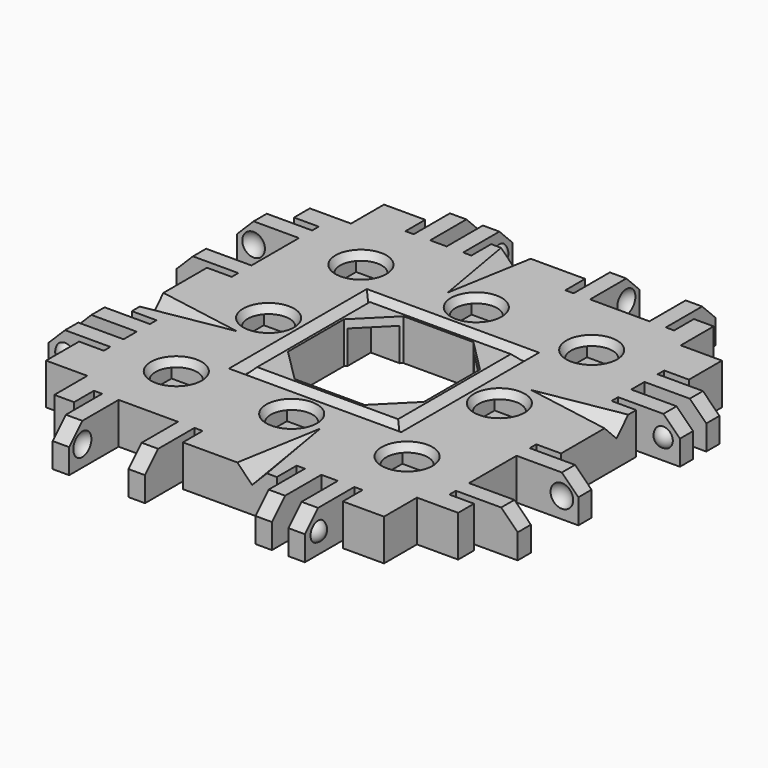
from build123d import *

# Parameters (mm, degrees)
BOX145_W                  = 16
BOX145_H                  = 16
BOX145_DEPTH              = 15
BOX146_W                  = 16.5
BOX146_H                  = 16.5
BOX146_DEPTH              = 15
CHAMFER013_SIZE           = 4
BOX148_W                  = 17
BOX148_H                  = 17
BOX148_DEPTH              = 14
BOX147_W                  = 21
BOX147_H                  = 21
BOX147_DEPTH              = 10
CHAMFER014_SIZE           = 0.95
BOX266_W                  = 10
BOX266_H                  = 15
BOX266_DEPTH              = 10
BOX266_ROLL_ANGLE         = 14.001942
BOX266_PITCH_ANGLE        = -44.136029
BOX266_PLACEMENT_ANGLE    = -99.851076
BOX267_W                  = 10
BOX267_H                  = 15
BOX267_DEPTH              = 10
BOX267_ROLL_ANGLE         = 14.001942
BOX267_PITCH_ANGLE        = -44.136029
BOX267_PLACEMENT_ANGLE    = 170.148924
BOX268_W                  = 10
BOX268_H                  = 15
BOX268_DEPTH              = 10
BOX268_ROLL_ANGLE         = 14.001942
BOX268_PITCH_ANGLE        = -44.136029
BOX268_PLACEMENT_ANGLE    = 80.148924
BOX265_W                  = 10
BOX265_H                  = 15
BOX265_DEPTH              = 10
BOX265_ROLL_ANGLE         = 14.001942
BOX265_PITCH_ANGLE        = -44.136029
BOX265_PLACEMENT_ANGLE    = -9.851076
BOX214_W                  = 13
BOX214_H                  = 40
BOX214_DEPTH              = 10
BOX214_PITCH_ANGLE        = -45
BOX222_W                  = 12
BOX222_H                  = 44
BOX222_DEPTH              = 10
BOX221_W                  = 20
BOX221_H                  = 44
BOX221_DEPTH              = 10
BOX217_W                  = 4
BOX217_H                  = 1
BOX217_DEPTH              = 7
BOX219_W                  = 4
BOX219_H                  = 1
BOX219_DEPTH              = 7
BOX216_W                  = 4
BOX216_H                  = 2
BOX216_DEPTH              = 7
BOX218_W                  = 4
BOX218_H                  = 1
BOX218_DEPTH              = 7
BOX215_W                  = 4
BOX215_H                  = 1
BOX215_DEPTH              = 7
BOX220_W                  = 4
BOX220_H                  = 7.2
BOX220_DEPTH              = 7
BOX210_W                  = 10
BOX210_H                  = 2
BOX210_DEPTH              = 7
BOX211_W                  = 10
BOX211_H                  = 2
BOX211_DEPTH              = 7
BOX212_W                  = 10
BOX212_H                  = 2
BOX212_DEPTH              = 7
BOX213_W                  = 10
BOX213_H                  = 2
BOX213_DEPTH              = 7
BOX209_W                  = 5
BOX209_H                  = 40
BOX209_DEPTH              = 7
BOX225_W                  = 13
BOX225_H                  = 40
BOX225_DEPTH              = 10
BOX225_PITCH_ANGLE        = -45
BOX236_W                  = 12
BOX236_H                  = 44
BOX236_DEPTH              = 10
BOX233_W                  = 20
BOX233_H                  = 44
BOX233_DEPTH              = 10
BOX228_W                  = 4
BOX228_H                  = 1
BOX228_DEPTH              = 7
BOX230_W                  = 4
BOX230_H                  = 1
BOX230_DEPTH              = 7
BOX224_W                  = 4
BOX224_H                  = 2
BOX224_DEPTH              = 7
BOX229_W                  = 4
BOX229_H                  = 1
BOX229_DEPTH              = 7
BOX232_W                  = 4
BOX232_H                  = 1
BOX232_DEPTH              = 7
BOX227_W                  = 4
BOX227_H                  = 7.2
BOX227_DEPTH              = 7
BOX226_W                  = 10
BOX226_H                  = 2
BOX226_DEPTH              = 7
BOX231_W                  = 10
BOX231_H                  = 2
BOX231_DEPTH              = 7
BOX235_W                  = 10
BOX235_H                  = 2
BOX235_DEPTH              = 7
BOX234_W                  = 10
BOX234_H                  = 2
BOX234_DEPTH              = 7
BOX223_W                  = 5
BOX223_H                  = 40
BOX223_DEPTH              = 7
CUT091_PLACEMENT_ANGLE    = 90
BOX246_W                  = 13
BOX246_H                  = 40
BOX246_DEPTH              = 10
BOX246_PITCH_ANGLE        = -45
BOX237_W                  = 12
BOX237_H                  = 44
BOX237_DEPTH              = 10
BOX241_W                  = 20
BOX241_H                  = 44
BOX241_DEPTH              = 10
BOX245_W                  = 4
BOX245_H                  = 1
BOX245_DEPTH              = 7
BOX238_W                  = 4
BOX238_H                  = 1
BOX238_DEPTH              = 7
BOX249_W                  = 4
BOX249_H                  = 2
BOX249_DEPTH              = 7
BOX244_W                  = 4
BOX244_H                  = 1
BOX244_DEPTH              = 7
BOX243_W                  = 4
BOX243_H                  = 1
BOX243_DEPTH              = 7
BOX248_W                  = 4
BOX248_H                  = 7.2
BOX248_DEPTH              = 7
BOX250_W                  = 10
BOX250_H                  = 2
BOX250_DEPTH              = 7
BOX239_W                  = 10
BOX239_H                  = 2
BOX239_DEPTH              = 7
BOX240_W                  = 10
BOX240_H                  = 2
BOX240_DEPTH              = 7
BOX242_W                  = 10
BOX242_H                  = 2
BOX242_DEPTH              = 7
BOX247_W                  = 5
BOX247_H                  = 40
BOX247_DEPTH              = 7
CUT092_PLACEMENT_ANGLE    = 180
BOX254_W                  = 13
BOX254_H                  = 40
BOX254_DEPTH              = 10
BOX254_PITCH_ANGLE        = -45
BOX251_W                  = 12
BOX251_H                  = 44
BOX251_DEPTH              = 10
BOX261_W                  = 20
BOX261_H                  = 44
BOX261_DEPTH              = 10
BOX253_W                  = 4
BOX253_H                  = 1
BOX253_DEPTH              = 7
BOX264_W                  = 4
BOX264_H                  = 1
BOX264_DEPTH              = 7
BOX257_W                  = 4
BOX257_H                  = 2
BOX257_DEPTH              = 7
BOX260_W                  = 4
BOX260_H                  = 1
BOX260_DEPTH              = 7
BOX259_W                  = 4
BOX259_H                  = 1
BOX259_DEPTH              = 7
BOX256_W                  = 4
BOX256_H                  = 7.2
BOX256_DEPTH              = 7
BOX258_W                  = 10
BOX258_H                  = 2
BOX258_DEPTH              = 7
BOX252_W                  = 10
BOX252_H                  = 2
BOX252_DEPTH              = 7
BOX263_W                  = 10
BOX263_H                  = 2
BOX263_DEPTH              = 7
BOX262_W                  = 10
BOX262_H                  = 2
BOX262_DEPTH              = 7
BOX255_W                  = 5
BOX255_H                  = 40
BOX255_DEPTH              = 7
CUT100_PLACEMENT_ANGLE    = -90
BOX073_W                  = 5.8
BOX073_H                  = 5.8
BOX073_DEPTH              = 2
BOX071_W                  = 5.8
BOX071_H                  = 5.8
BOX071_DEPTH              = 2
BOX069_W                  = 5.8
BOX069_H                  = 5.8
BOX069_DEPTH              = 2
BOX068_W                  = 5.8
BOX068_H                  = 5.8
BOX068_DEPTH              = 2
BOX070_W                  = 5.8
BOX070_H                  = 5.8
BOX070_DEPTH              = 2
BOX072_W                  = 5.8
BOX072_H                  = 5.8
BOX072_DEPTH              = 2
BOX074_W                  = 5.8
BOX074_H                  = 5.8
BOX074_DEPTH              = 2
BOX067_W                  = 5.8
BOX067_H                  = 5.8
BOX067_DEPTH              = 2
CYLINDER018_R             = 1.7
CYLINDER018_DEPTH         = 10
CYLINDER016_R             = 1.7
CYLINDER016_DEPTH         = 10
CYLINDER015_R             = 1.7
CYLINDER015_DEPTH         = 10
CYLINDER014_R             = 1.7
CYLINDER014_DEPTH         = 10
CYLINDER013_R             = 1.7
CYLINDER013_DEPTH         = 10
CYLINDER017_R             = 1.7
CYLINDER017_DEPTH         = 10
CYLINDER019_R             = 1.7
CYLINDER019_DEPTH         = 10
CYLINDER012_R             = 1.7
CYLINDER012_DEPTH         = 10
FUSION047_PLACEMENT_ANGLE = 180
BOX075_W                  = 40
BOX075_H                  = 40
BOX075_DEPTH              = 5


with BuildPart() as cube129:
    # Box145 → Box145 (new body)
    with BuildSketch(Plane(origin=(12, 12, -13), x_dir=(1, 0, 0), z_dir=(0, 0, 1))):
        with Locations((8, 8)):
            Rectangle(BOX145_W, BOX145_H)
    extrude(amount=BOX145_DEPTH)


with BuildPart() as chamfer013:
    # Box146 → Box146 (new body)
    with BuildSketch(Plane(origin=(11.75, 11.75, -3), x_dir=(1, 0, 0), z_dir=(0, 0, 1))):
        with Locations((8.25, 8.25)):
            Rectangle(BOX146_W, BOX146_H)
    extrude(amount=BOX146_DEPTH)

    # Chamfer013
    chamfer013_edges = [chamfer013.edges().sort_by_distance(p)[0] for p in [
        (11.75, 11.75, 4.5),
        (11.75, 28.25, 4.5),
        (28.25, 11.75, 4.5),
        (28.25, 28.25, 4.5),
    ]]
    chamfer(chamfer013_edges, length=CHAMFER013_SIZE)


with BuildPart() as cube132:
    # Box148 → Box148 (new body)
    with BuildSketch(Plane(origin=(11.5, 11.5, 0), x_dir=(1, 0, 0), z_dir=(0, 0, 1))):
        with Locations((8.5, 8.5)):
            Rectangle(BOX148_W, BOX148_H)
    extrude(amount=BOX148_DEPTH)


with BuildPart() as chamfer014:
    # Box147 → Box147 (new body)
    with BuildSketch(Plane(origin=(9.5, 9.5, 2.1), x_dir=(1, 0, 0), z_dir=(0, 0, 1))):
        with Locations((10.5, 10.5)):
            Rectangle(BOX147_W, BOX147_H)
    extrude(amount=BOX147_DEPTH)

    # Cut043: cut Cube132
    add(cube132.part, mode=Mode.SUBTRACT)

    # Chamfer014
    chamfer014_edges = [chamfer014.edges().sort_by_distance(p)[0] for p in [
        (9.5, 20, 2.1),
        (20, 9.5, 2.1),
        (20, 30.5, 2.1),
        (30.5, 20, 2.1),
        (20, 11.5, 2.1),
        (28.5, 20, 2.1),
        (20, 28.5, 2.1),
        (11.5, 20, 2.1),
    ]]
    chamfer(chamfer014_edges, length=CHAMFER014_SIZE)


with BuildPart() as cube225:
    # Box266 → Box266 (new body)
    with BuildSketch(Plane.XY):
        with Locations((5, 7.5)):
            Rectangle(BOX266_W, BOX266_H)
    extrude(amount=BOX266_DEPTH)


with BuildPart() as cube225_1:
    # Box266 roll: moved
    add(cube225.part.rotate(Axis((0, 0, 0), (1, 0, 0)), BOX266_ROLL_ANGLE))


with BuildPart() as cube225_2:
    # Box266 pitch: moved
    add(cube225_1.part.rotate(Axis((0, 0, 0), (0, 1, 0)), BOX266_PITCH_ANGLE))


with BuildPart() as cube225_3:
    # Box266 placement: moved
    add(cube225_2.part.moved(Location((-6, 16, 1))).rotate(Axis((-6, 16, 1), (0, 0, 1)), BOX266_PLACEMENT_ANGLE))


with BuildPart() as cube226:
    # Box267 → Box267 (new body)
    with BuildSketch(Plane.XY):
        with Locations((5, 7.5)):
            Rectangle(BOX267_W, BOX267_H)
    extrude(amount=BOX267_DEPTH)


with BuildPart() as cube226_1:
    # Box267 roll: moved
    add(cube226.part.rotate(Axis((0, 0, 0), (1, 0, 0)), BOX267_ROLL_ANGLE))


with BuildPart() as cube226_2:
    # Box267 pitch: moved
    add(cube226_1.part.rotate(Axis((0, 0, 0), (0, 1, 0)), BOX267_PITCH_ANGLE))


with BuildPart() as cube226_3:
    # Box267 placement: moved
    add(cube226_2.part.moved(Location((16, 46, 1))).rotate(Axis((16, 46, 1), (0, 0, 1)), BOX267_PLACEMENT_ANGLE))


with BuildPart() as cube227:
    # Box268 → Box268 (new body)
    with BuildSketch(Plane.XY):
        with Locations((5, 7.5)):
            Rectangle(BOX268_W, BOX268_H)
    extrude(amount=BOX268_DEPTH)


with BuildPart() as cube227_1:
    # Box268 roll: moved
    add(cube227.part.rotate(Axis((0, 0, 0), (1, 0, 0)), BOX268_ROLL_ANGLE))


with BuildPart() as cube227_2:
    # Box268 pitch: moved
    add(cube227_1.part.rotate(Axis((0, 0, 0), (0, 1, 0)), BOX268_PITCH_ANGLE))


with BuildPart() as cube227_3:
    # Box268 placement: moved
    add(cube227_2.part.moved(Location((46, 24, 1))).rotate(Axis((46, 24, 1), (0, 0, 1)), BOX268_PLACEMENT_ANGLE))


with BuildPart() as glue_dents001:
    # Box265 → Box265 (new body)
    with BuildSketch(Plane.XY):
        with Locations((5, 7.5)):
            Rectangle(BOX265_W, BOX265_H)
    extrude(amount=BOX265_DEPTH)


with BuildPart() as glue_dents001_1:
    # Box265 roll: moved
    add(glue_dents001.part.rotate(Axis((0, 0, 0), (1, 0, 0)), BOX265_ROLL_ANGLE))


with BuildPart() as glue_dents001_2:
    # Box265 pitch: moved
    add(glue_dents001_1.part.rotate(Axis((0, 0, 0), (0, 1, 0)), BOX265_PITCH_ANGLE))


with BuildPart() as glue_dents001_3:
    # Box265 placement: moved
    add(glue_dents001_2.part.moved(Location((24, -6, 1))).rotate(Axis((24, -6, 1), (0, 0, 1)), BOX265_PLACEMENT_ANGLE))

    # Fusion099: union Cube225, Cube226, Cube227
    add(cube225_3.part)
    add(cube226_3.part)
    add(cube227_3.part)


with BuildPart() as chamfer_cube005:
    # Box214 → Box214 (new body)
    with BuildSketch(Plane.XY):
        with Locations((6.5, 20)):
            Rectangle(BOX214_W, BOX214_H)
    extrude(amount=BOX214_DEPTH)


with BuildPart() as chamfer_cube005_1:
    # Box214 pitch: moved
    add(chamfer_cube005.part.rotate(Axis((0, 0, 0), (0, 1, 0)), BOX214_PITCH_ANGLE))


with BuildPart() as chamfer_cube005_2:
    # Box214 placement: moved
    add(chamfer_cube005_1.part.moved(Location((-11.69, 0, -1.19))))


with BuildPart() as re_level_edge_clip_block011:
    # Box222 → Box222 (new body)
    with BuildSketch(Plane(origin=(-21.5, -2, -7), x_dir=(1, 0, 0), z_dir=(0, 0, 1))):
        with Locations((6, 22)):
            Rectangle(BOX222_W, BOX222_H)
    extrude(amount=BOX222_DEPTH)


with BuildPart() as re_level_edge_clip_block010:
    # Box221 → Box221 (new body)
    with BuildSketch(Plane(origin=(-19, -2, 3), x_dir=(1, 0, 0), z_dir=(0, 0, 1))):
        with Locations((10, 22)):
            Rectangle(BOX221_W, BOX221_H)
    extrude(amount=BOX221_DEPTH)


with BuildPart() as cube187:
    # Box217 → Box217 (new body)
    with BuildSketch(Plane(origin=(-6, 12, -2), x_dir=(1, 0, 0), z_dir=(0, 0, 1))):
        with Locations((2, 0.5)):
            Rectangle(BOX217_W, BOX217_H)
    extrude(amount=BOX217_DEPTH)


with BuildPart() as cube189:
    # Box219 → Box219 (new body)
    with BuildSketch(Plane(origin=(-6, 36.6, -2), x_dir=(1, 0, 0), z_dir=(0, 0, 1))):
        with Locations((2, 0.5)):
            Rectangle(BOX219_W, BOX219_H)
    extrude(amount=BOX219_DEPTH)


with BuildPart() as cube186:
    # Box216 → Box216 (new body)
    with BuildSketch(Plane(origin=(-6, 8, -2), x_dir=(1, 0, 0), z_dir=(0, 0, 1))):
        with Locations((2, 1)):
            Rectangle(BOX216_W, BOX216_H)
    extrude(amount=BOX216_DEPTH)


with BuildPart() as cube188:
    # Box218 → Box218 (new body)
    with BuildSketch(Plane(origin=(-6, 24.4, -2), x_dir=(1, 0, 0), z_dir=(0, 0, 1))):
        with Locations((2, 0.5)):
            Rectangle(BOX218_W, BOX218_H)
    extrude(amount=BOX218_DEPTH)


with BuildPart() as cube185:
    # Box215 → Box215 (new body)
    with BuildSketch(Plane(origin=(-6, 5, -2), x_dir=(1, 0, 0), z_dir=(0, 0, 1))):
        with Locations((2, 0.5)):
            Rectangle(BOX215_W, BOX215_H)
    extrude(amount=BOX215_DEPTH)


with BuildPart() as extra_holes_for_clips005:
    # Box220 → Box220 (new body)
    with BuildSketch(Plane(origin=(-6, 27.4, -2), x_dir=(1, 0, 0), z_dir=(0, 0, 1))):
        with Locations((2, 3.6)):
            Rectangle(BOX220_W, BOX220_H)
    extrude(amount=BOX220_DEPTH)

    # Fusion079: union Cube187, Cube189, Cube186, Cube188, Cube185
    add(cube187.part)
    add(cube189.part)
    add(cube186.part)
    add(cube188.part)
    add(cube185.part)


with BuildPart() as sphere070:
    # Sphere070 → Sphere070 (revolve)
    with BuildSketch(Plane(origin=(-7.5, 34, 0.5), x_dir=(1, 0, 0), z_dir=(0, -1, 0))):
        with BuildLine():
            ThreePointArc((0, -1.5), (1.5, 0), (0, 1.5))
            Line((0, 1.5), (0, -1.5))
        make_face()
    revolve(axis=Axis((-7.5, 34, 0.5), (0, 0, 1)))


with BuildPart() as holes005:
    # Sphere069 → Sphere069 (revolve)
    with BuildSketch(Plane(origin=(-7.5, 28, 0.5), x_dir=(1, 0, 0), z_dir=(0, -1, 0))):
        with BuildLine():
            ThreePointArc((0, -1.5), (1.5, 0), (0, 1.5))
            Line((0, 1.5), (0, -1.5))
        make_face()
    revolve(axis=Axis((-7.5, 28, 0.5), (0, 0, 1)))

    # Fusion081: union Sphere070
    add(sphere070.part)


with BuildPart() as cube181:
    # Box210 → Box210 (new body)
    with BuildSketch(Plane(origin=(-15, 6, -2), x_dir=(1, 0, 0), z_dir=(0, 0, 1))):
        with Locations((5, 1)):
            Rectangle(BOX210_W, BOX210_H)
    extrude(amount=BOX210_DEPTH)


with BuildPart() as cube182:
    # Box211 → Box211 (new body)
    with BuildSketch(Plane(origin=(-15, 10, -2), x_dir=(1, 0, 0), z_dir=(0, 0, 1))):
        with Locations((5, 1)):
            Rectangle(BOX211_W, BOX211_H)
    extrude(amount=BOX211_DEPTH)


with BuildPart() as cube183:
    # Box212 → Box212 (new body)
    with BuildSketch(Plane(origin=(-15, 25.4, -2), x_dir=(1, 0, 0), z_dir=(0, 0, 1))):
        with Locations((5, 1)):
            Rectangle(BOX212_W, BOX212_H)
    extrude(amount=BOX212_DEPTH)


with BuildPart() as cube184:
    # Box213 → Box213 (new body)
    with BuildSketch(Plane(origin=(-15, 34.6, -2), x_dir=(1, 0, 0), z_dir=(0, 0, 1))):
        with Locations((5, 1)):
            Rectangle(BOX213_W, BOX213_H)
    extrude(amount=BOX213_DEPTH)


with BuildPart() as fusion082:
    # Box209 → Box209 (new body)
    with BuildSketch(Plane(origin=(-5, 0, -2), x_dir=(1, 0, 0), z_dir=(0, 0, 1))):
        with Locations((2.5, 20)):
            Rectangle(BOX209_W, BOX209_H)
    extrude(amount=BOX209_DEPTH)

    # Fusion082: union Cube181, Cube182, Cube183, Cube184
    add(cube181.part)
    add(cube182.part)
    add(cube183.part)
    add(cube184.part)


with BuildPart() as sphere068:
    # Sphere068 → Sphere068 (revolve)
    with BuildSketch(Plane(origin=(-7.5, 11.5, 0.5), x_dir=(1, 0, 0), z_dir=(0, -1, 0))):
        with BuildLine():
            ThreePointArc((0, -1.25), (1.25, 0), (0, 1.25))
            Line((0, 1.25), (0, -1.25))
        make_face()
    revolve(axis=Axis((-7.5, 11.5, 0.5), (0, 0, 1)))


with BuildPart() as edge_clips_master001:
    # Sphere067 → Sphere067 (revolve)
    with BuildSketch(Plane(origin=(-7.5, 6.5, 0.5), x_dir=(1, 0, 0), z_dir=(0, -1, 0))):
        with BuildLine():
            ThreePointArc((0, -1.25), (1.25, 0), (0, 1.25))
            Line((0, 1.25), (0, -1.25))
        make_face()
    revolve(axis=Axis((-7.5, 6.5, 0.5), (0, 0, 1)))

    # Fusion080: union Sphere068
    add(sphere068.part)

    # Fusion083: union Fusion082
    add(fusion082.part)

    # Cut082: cut Holes005
    add(holes005.part, mode=Mode.SUBTRACT)

    # Cut083: cut Extra Holes for Clips005
    add(extra_holes_for_clips005.part, mode=Mode.SUBTRACT)

    # Cut084: cut Re-level Edge Clip Block010
    add(re_level_edge_clip_block010.part, mode=Mode.SUBTRACT)

    # Cut085: cut Re-level Edge Clip Block011
    add(re_level_edge_clip_block011.part, mode=Mode.SUBTRACT)

    # Cut086: cut Chamfer Cube005
    add(chamfer_cube005_2.part, mode=Mode.SUBTRACT)


with BuildPart() as chamfer_cube006:
    # Box225 → Box225 (new body)
    with BuildSketch(Plane.XY):
        with Locations((6.5, 20)):
            Rectangle(BOX225_W, BOX225_H)
    extrude(amount=BOX225_DEPTH)


with BuildPart() as chamfer_cube006_1:
    # Box225 pitch: moved
    add(chamfer_cube006.part.rotate(Axis((0, 0, 0), (0, 1, 0)), BOX225_PITCH_ANGLE))


with BuildPart() as chamfer_cube006_2:
    # Box225 placement: moved
    add(chamfer_cube006_1.part.moved(Location((-11.69, 0, -1.19))))


with BuildPart() as re_level_edge_clip_block013:
    # Box236 → Box236 (new body)
    with BuildSketch(Plane(origin=(-21.5, -2, -7), x_dir=(1, 0, 0), z_dir=(0, 0, 1))):
        with Locations((6, 22)):
            Rectangle(BOX236_W, BOX236_H)
    extrude(amount=BOX236_DEPTH)


with BuildPart() as re_level_edge_clip_block012:
    # Box233 → Box233 (new body)
    with BuildSketch(Plane(origin=(-19, -2, 3), x_dir=(1, 0, 0), z_dir=(0, 0, 1))):
        with Locations((10, 22)):
            Rectangle(BOX233_W, BOX233_H)
    extrude(amount=BOX233_DEPTH)


with BuildPart() as cube195:
    # Box228 → Box228 (new body)
    with BuildSketch(Plane(origin=(-6, 12, -2), x_dir=(1, 0, 0), z_dir=(0, 0, 1))):
        with Locations((2, 0.5)):
            Rectangle(BOX228_W, BOX228_H)
    extrude(amount=BOX228_DEPTH)


with BuildPart() as cube197:
    # Box230 → Box230 (new body)
    with BuildSketch(Plane(origin=(-6, 36.6, -2), x_dir=(1, 0, 0), z_dir=(0, 0, 1))):
        with Locations((2, 0.5)):
            Rectangle(BOX230_W, BOX230_H)
    extrude(amount=BOX230_DEPTH)


with BuildPart() as cube192:
    # Box224 → Box224 (new body)
    with BuildSketch(Plane(origin=(-6, 8, -2), x_dir=(1, 0, 0), z_dir=(0, 0, 1))):
        with Locations((2, 1)):
            Rectangle(BOX224_W, BOX224_H)
    extrude(amount=BOX224_DEPTH)


with BuildPart() as cube196:
    # Box229 → Box229 (new body)
    with BuildSketch(Plane(origin=(-6, 24.4, -2), x_dir=(1, 0, 0), z_dir=(0, 0, 1))):
        with Locations((2, 0.5)):
            Rectangle(BOX229_W, BOX229_H)
    extrude(amount=BOX229_DEPTH)


with BuildPart() as cube199:
    # Box232 → Box232 (new body)
    with BuildSketch(Plane(origin=(-6, 5, -2), x_dir=(1, 0, 0), z_dir=(0, 0, 1))):
        with Locations((2, 0.5)):
            Rectangle(BOX232_W, BOX232_H)
    extrude(amount=BOX232_DEPTH)


with BuildPart() as extra_holes_for_clips006:
    # Box227 → Box227 (new body)
    with BuildSketch(Plane(origin=(-6, 27.4, -2), x_dir=(1, 0, 0), z_dir=(0, 0, 1))):
        with Locations((2, 3.6)):
            Rectangle(BOX227_W, BOX227_H)
    extrude(amount=BOX227_DEPTH)

    # Fusion085: union Cube195, Cube197, Cube192, Cube196, Cube199
    add(cube195.part)
    add(cube197.part)
    add(cube192.part)
    add(cube196.part)
    add(cube199.part)


with BuildPart() as sphere073:
    # Sphere073 → Sphere073 (revolve)
    with BuildSketch(Plane(origin=(-7.5, 34, 0.5), x_dir=(1, 0, 0), z_dir=(0, -1, 0))):
        with BuildLine():
            ThreePointArc((0, -1.5), (1.5, 0), (0, 1.5))
            Line((0, 1.5), (0, -1.5))
        make_face()
    revolve(axis=Axis((-7.5, 34, 0.5), (0, 0, 1)))


with BuildPart() as holes006:
    # Sphere074 → Sphere074 (revolve)
    with BuildSketch(Plane(origin=(-7.5, 28, 0.5), x_dir=(1, 0, 0), z_dir=(0, -1, 0))):
        with BuildLine():
            ThreePointArc((0, -1.5), (1.5, 0), (0, 1.5))
            Line((0, 1.5), (0, -1.5))
        make_face()
    revolve(axis=Axis((-7.5, 28, 0.5), (0, 0, 1)))

    # Fusion088: union Sphere073
    add(sphere073.part)


with BuildPart() as cube193:
    # Box226 → Box226 (new body)
    with BuildSketch(Plane(origin=(-15, 6, -2), x_dir=(1, 0, 0), z_dir=(0, 0, 1))):
        with Locations((5, 1)):
            Rectangle(BOX226_W, BOX226_H)
    extrude(amount=BOX226_DEPTH)


with BuildPart() as cube198:
    # Box231 → Box231 (new body)
    with BuildSketch(Plane(origin=(-15, 10, -2), x_dir=(1, 0, 0), z_dir=(0, 0, 1))):
        with Locations((5, 1)):
            Rectangle(BOX231_W, BOX231_H)
    extrude(amount=BOX231_DEPTH)


with BuildPart() as cube201:
    # Box235 → Box235 (new body)
    with BuildSketch(Plane(origin=(-15, 25.4, -2), x_dir=(1, 0, 0), z_dir=(0, 0, 1))):
        with Locations((5, 1)):
            Rectangle(BOX235_W, BOX235_H)
    extrude(amount=BOX235_DEPTH)


with BuildPart() as cube200:
    # Box234 → Box234 (new body)
    with BuildSketch(Plane(origin=(-15, 34.6, -2), x_dir=(1, 0, 0), z_dir=(0, 0, 1))):
        with Locations((5, 1)):
            Rectangle(BOX234_W, BOX234_H)
    extrude(amount=BOX234_DEPTH)


with BuildPart() as fusion086:
    # Box223 → Box223 (new body)
    with BuildSketch(Plane(origin=(-5, 0, -2), x_dir=(1, 0, 0), z_dir=(0, 0, 1))):
        with Locations((2.5, 20)):
            Rectangle(BOX223_W, BOX223_H)
    extrude(amount=BOX223_DEPTH)

    # Fusion086: union Cube193, Cube198, Cube201, Cube200
    add(cube193.part)
    add(cube198.part)
    add(cube201.part)
    add(cube200.part)


with BuildPart() as sphere071:
    # Sphere071 → Sphere071 (revolve)
    with BuildSketch(Plane(origin=(-7.5, 11.5, 0.5), x_dir=(1, 0, 0), z_dir=(0, -1, 0))):
        with BuildLine():
            ThreePointArc((0, -1.25), (1.25, 0), (0, 1.25))
            Line((0, 1.25), (0, -1.25))
        make_face()
    revolve(axis=Axis((-7.5, 11.5, 0.5), (0, 0, 1)))


with BuildPart() as edge_clips004:
    # Sphere072 → Sphere072 (revolve)
    with BuildSketch(Plane(origin=(-7.5, 6.5, 0.5), x_dir=(1, 0, 0), z_dir=(0, -1, 0))):
        with BuildLine():
            ThreePointArc((0, -1.25), (1.25, 0), (0, 1.25))
            Line((0, 1.25), (0, -1.25))
        make_face()
    revolve(axis=Axis((-7.5, 6.5, 0.5), (0, 0, 1)))

    # Fusion087: union Sphere071
    add(sphere071.part)

    # Fusion084: union Fusion086
    add(fusion086.part)

    # Cut087: cut Holes006
    add(holes006.part, mode=Mode.SUBTRACT)

    # Cut088: cut Extra Holes for Clips006
    add(extra_holes_for_clips006.part, mode=Mode.SUBTRACT)

    # Cut089: cut Re-level Edge Clip Block012
    add(re_level_edge_clip_block012.part, mode=Mode.SUBTRACT)

    # Cut090: cut Re-level Edge Clip Block013
    add(re_level_edge_clip_block013.part, mode=Mode.SUBTRACT)

    # Cut091: cut Chamfer Cube006
    add(chamfer_cube006_2.part, mode=Mode.SUBTRACT)


with BuildPart() as edge_clips004_1:
    # Cut091 placement: moved
    add(edge_clips004.part.moved(Location((40, 0, 0))).rotate(Axis((40, 0, 0), (0, 0, 1)), CUT091_PLACEMENT_ANGLE))


with BuildPart() as chamfer_cube007:
    # Box246 → Box246 (new body)
    with BuildSketch(Plane.XY):
        with Locations((6.5, 20)):
            Rectangle(BOX246_W, BOX246_H)
    extrude(amount=BOX246_DEPTH)


with BuildPart() as chamfer_cube007_1:
    # Box246 pitch: moved
    add(chamfer_cube007.part.rotate(Axis((0, 0, 0), (0, 1, 0)), BOX246_PITCH_ANGLE))


with BuildPart() as chamfer_cube007_2:
    # Box246 placement: moved
    add(chamfer_cube007_1.part.moved(Location((-11.69, 0, -1.19))))


with BuildPart() as re_level_edge_clip_block014:
    # Box237 → Box237 (new body)
    with BuildSketch(Plane(origin=(-21.5, -2, -7), x_dir=(1, 0, 0), z_dir=(0, 0, 1))):
        with Locations((6, 22)):
            Rectangle(BOX237_W, BOX237_H)
    extrude(amount=BOX237_DEPTH)


with BuildPart() as re_level_edge_clip_block015:
    # Box241 → Box241 (new body)
    with BuildSketch(Plane(origin=(-19, -2, 3), x_dir=(1, 0, 0), z_dir=(0, 0, 1))):
        with Locations((10, 22)):
            Rectangle(BOX241_W, BOX241_H)
    extrude(amount=BOX241_DEPTH)


with BuildPart() as cube208:
    # Box245 → Box245 (new body)
    with BuildSketch(Plane(origin=(-6, 12, -2), x_dir=(1, 0, 0), z_dir=(0, 0, 1))):
        with Locations((2, 0.5)):
            Rectangle(BOX245_W, BOX245_H)
    extrude(amount=BOX245_DEPTH)


with BuildPart() as cube202:
    # Box238 → Box238 (new body)
    with BuildSketch(Plane(origin=(-6, 36.6, -2), x_dir=(1, 0, 0), z_dir=(0, 0, 1))):
        with Locations((2, 0.5)):
            Rectangle(BOX238_W, BOX238_H)
    extrude(amount=BOX238_DEPTH)


with BuildPart() as cube211:
    # Box249 → Box249 (new body)
    with BuildSketch(Plane(origin=(-6, 8, -2), x_dir=(1, 0, 0), z_dir=(0, 0, 1))):
        with Locations((2, 1)):
            Rectangle(BOX249_W, BOX249_H)
    extrude(amount=BOX249_DEPTH)


with BuildPart() as cube207:
    # Box244 → Box244 (new body)
    with BuildSketch(Plane(origin=(-6, 24.4, -2), x_dir=(1, 0, 0), z_dir=(0, 0, 1))):
        with Locations((2, 0.5)):
            Rectangle(BOX244_W, BOX244_H)
    extrude(amount=BOX244_DEPTH)


with BuildPart() as cube206:
    # Box243 → Box243 (new body)
    with BuildSketch(Plane(origin=(-6, 5, -2), x_dir=(1, 0, 0), z_dir=(0, 0, 1))):
        with Locations((2, 0.5)):
            Rectangle(BOX243_W, BOX243_H)
    extrude(amount=BOX243_DEPTH)


with BuildPart() as extra_holes_for_clips007:
    # Box248 → Box248 (new body)
    with BuildSketch(Plane(origin=(-6, 27.4, -2), x_dir=(1, 0, 0), z_dir=(0, 0, 1))):
        with Locations((2, 3.6)):
            Rectangle(BOX248_W, BOX248_H)
    extrude(amount=BOX248_DEPTH)

    # Fusion091: union Cube208, Cube202, Cube211, Cube207, Cube206
    add(cube208.part)
    add(cube202.part)
    add(cube211.part)
    add(cube207.part)
    add(cube206.part)


with BuildPart() as sphere075:
    # Sphere075 → Sphere075 (revolve)
    with BuildSketch(Plane(origin=(-7.5, 34, 0.5), x_dir=(1, 0, 0), z_dir=(0, -1, 0))):
        with BuildLine():
            ThreePointArc((0, -1.5), (1.5, 0), (0, 1.5))
            Line((0, 1.5), (0, -1.5))
        make_face()
    revolve(axis=Axis((-7.5, 34, 0.5), (0, 0, 1)))


with BuildPart() as holes007:
    # Sphere076 → Sphere076 (revolve)
    with BuildSketch(Plane(origin=(-7.5, 28, 0.5), x_dir=(1, 0, 0), z_dir=(0, -1, 0))):
        with BuildLine():
            ThreePointArc((0, -1.5), (1.5, 0), (0, 1.5))
            Line((0, 1.5), (0, -1.5))
        make_face()
    revolve(axis=Axis((-7.5, 28, 0.5), (0, 0, 1)))

    # Fusion089: union Sphere075
    add(sphere075.part)


with BuildPart() as cube212:
    # Box250 → Box250 (new body)
    with BuildSketch(Plane(origin=(-15, 6, -2), x_dir=(1, 0, 0), z_dir=(0, 0, 1))):
        with Locations((5, 1)):
            Rectangle(BOX250_W, BOX250_H)
    extrude(amount=BOX250_DEPTH)


with BuildPart() as cube203:
    # Box239 → Box239 (new body)
    with BuildSketch(Plane(origin=(-15, 10, -2), x_dir=(1, 0, 0), z_dir=(0, 0, 1))):
        with Locations((5, 1)):
            Rectangle(BOX239_W, BOX239_H)
    extrude(amount=BOX239_DEPTH)


with BuildPart() as cube204:
    # Box240 → Box240 (new body)
    with BuildSketch(Plane(origin=(-15, 25.4, -2), x_dir=(1, 0, 0), z_dir=(0, 0, 1))):
        with Locations((5, 1)):
            Rectangle(BOX240_W, BOX240_H)
    extrude(amount=BOX240_DEPTH)


with BuildPart() as cube205:
    # Box242 → Box242 (new body)
    with BuildSketch(Plane(origin=(-15, 34.6, -2), x_dir=(1, 0, 0), z_dir=(0, 0, 1))):
        with Locations((5, 1)):
            Rectangle(BOX242_W, BOX242_H)
    extrude(amount=BOX242_DEPTH)


with BuildPart() as fusion092:
    # Box247 → Box247 (new body)
    with BuildSketch(Plane(origin=(-5, 0, -2), x_dir=(1, 0, 0), z_dir=(0, 0, 1))):
        with Locations((2.5, 20)):
            Rectangle(BOX247_W, BOX247_H)
    extrude(amount=BOX247_DEPTH)

    # Fusion092: union Cube212, Cube203, Cube204, Cube205
    add(cube212.part)
    add(cube203.part)
    add(cube204.part)
    add(cube205.part)


with BuildPart() as sphere077:
    # Sphere077 → Sphere077 (revolve)
    with BuildSketch(Plane(origin=(-7.5, 11.5, 0.5), x_dir=(1, 0, 0), z_dir=(0, -1, 0))):
        with BuildLine():
            ThreePointArc((0, -1.25), (1.25, 0), (0, 1.25))
            Line((0, 1.25), (0, -1.25))
        make_face()
    revolve(axis=Axis((-7.5, 11.5, 0.5), (0, 0, 1)))


with BuildPart() as edge_clips005:
    # Sphere078 → Sphere078 (revolve)
    with BuildSketch(Plane(origin=(-7.5, 6.5, 0.5), x_dir=(1, 0, 0), z_dir=(0, -1, 0))):
        with BuildLine():
            ThreePointArc((0, -1.25), (1.25, 0), (0, 1.25))
            Line((0, 1.25), (0, -1.25))
        make_face()
    revolve(axis=Axis((-7.5, 6.5, 0.5), (0, 0, 1)))

    # Fusion090: union Sphere077
    add(sphere077.part)

    # Fusion093: union Fusion092
    add(fusion092.part)

    # Cut093: cut Holes007
    add(holes007.part, mode=Mode.SUBTRACT)

    # Cut094: cut Extra Holes for Clips007
    add(extra_holes_for_clips007.part, mode=Mode.SUBTRACT)

    # Cut095: cut Re-level Edge Clip Block015
    add(re_level_edge_clip_block015.part, mode=Mode.SUBTRACT)

    # Cut096: cut Re-level Edge Clip Block014
    add(re_level_edge_clip_block014.part, mode=Mode.SUBTRACT)

    # Cut092: cut Chamfer Cube007
    add(chamfer_cube007_2.part, mode=Mode.SUBTRACT)


with BuildPart() as edge_clips005_1:
    # Cut092 placement: moved
    add(edge_clips005.part.moved(Location((40, 40, 0))).rotate(Axis((40, 40, 0), (0, 0, 1)), CUT092_PLACEMENT_ANGLE))


with BuildPart() as chamfer_cube008:
    # Box254 → Box254 (new body)
    with BuildSketch(Plane.XY):
        with Locations((6.5, 20)):
            Rectangle(BOX254_W, BOX254_H)
    extrude(amount=BOX254_DEPTH)


with BuildPart() as chamfer_cube008_1:
    # Box254 pitch: moved
    add(chamfer_cube008.part.rotate(Axis((0, 0, 0), (0, 1, 0)), BOX254_PITCH_ANGLE))


with BuildPart() as chamfer_cube008_2:
    # Box254 placement: moved
    add(chamfer_cube008_1.part.moved(Location((-11.69, 0, -1.19))))


with BuildPart() as re_level_edge_clip_block016:
    # Box251 → Box251 (new body)
    with BuildSketch(Plane(origin=(-21.5, -2, -7), x_dir=(1, 0, 0), z_dir=(0, 0, 1))):
        with Locations((6, 22)):
            Rectangle(BOX251_W, BOX251_H)
    extrude(amount=BOX251_DEPTH)


with BuildPart() as re_level_edge_clip_block017:
    # Box261 → Box261 (new body)
    with BuildSketch(Plane(origin=(-19, -2, 3), x_dir=(1, 0, 0), z_dir=(0, 0, 1))):
        with Locations((10, 22)):
            Rectangle(BOX261_W, BOX261_H)
    extrude(amount=BOX261_DEPTH)


with BuildPart() as cube214:
    # Box253 → Box253 (new body)
    with BuildSketch(Plane(origin=(-6, 12, -2), x_dir=(1, 0, 0), z_dir=(0, 0, 1))):
        with Locations((2, 0.5)):
            Rectangle(BOX253_W, BOX253_H)
    extrude(amount=BOX253_DEPTH)


with BuildPart() as cube223:
    # Box264 → Box264 (new body)
    with BuildSketch(Plane(origin=(-6, 36.6, -2), x_dir=(1, 0, 0), z_dir=(0, 0, 1))):
        with Locations((2, 0.5)):
            Rectangle(BOX264_W, BOX264_H)
    extrude(amount=BOX264_DEPTH)


with BuildPart() as cube217:
    # Box257 → Box257 (new body)
    with BuildSketch(Plane(origin=(-6, 8, -2), x_dir=(1, 0, 0), z_dir=(0, 0, 1))):
        with Locations((2, 1)):
            Rectangle(BOX257_W, BOX257_H)
    extrude(amount=BOX257_DEPTH)


with BuildPart() as cube220:
    # Box260 → Box260 (new body)
    with BuildSketch(Plane(origin=(-6, 24.4, -2), x_dir=(1, 0, 0), z_dir=(0, 0, 1))):
        with Locations((2, 0.5)):
            Rectangle(BOX260_W, BOX260_H)
    extrude(amount=BOX260_DEPTH)


with BuildPart() as cube219:
    # Box259 → Box259 (new body)
    with BuildSketch(Plane(origin=(-6, 5, -2), x_dir=(1, 0, 0), z_dir=(0, 0, 1))):
        with Locations((2, 0.5)):
            Rectangle(BOX259_W, BOX259_H)
    extrude(amount=BOX259_DEPTH)


with BuildPart() as extra_holes_for_clips008:
    # Box256 → Box256 (new body)
    with BuildSketch(Plane(origin=(-6, 27.4, -2), x_dir=(1, 0, 0), z_dir=(0, 0, 1))):
        with Locations((2, 3.6)):
            Rectangle(BOX256_W, BOX256_H)
    extrude(amount=BOX256_DEPTH)

    # Fusion095: union Cube214, Cube223, Cube217, Cube220, Cube219
    add(cube214.part)
    add(cube223.part)
    add(cube217.part)
    add(cube220.part)
    add(cube219.part)


with BuildPart() as sphere082:
    # Sphere082 → Sphere082 (revolve)
    with BuildSketch(Plane(origin=(-7.5, 34, 0.5), x_dir=(1, 0, 0), z_dir=(0, -1, 0))):
        with BuildLine():
            ThreePointArc((0, -1.5), (1.5, 0), (0, 1.5))
            Line((0, 1.5), (0, -1.5))
        make_face()
    revolve(axis=Axis((-7.5, 34, 0.5), (0, 0, 1)))


with BuildPart() as holes008:
    # Sphere080 → Sphere080 (revolve)
    with BuildSketch(Plane(origin=(-7.5, 28, 0.5), x_dir=(1, 0, 0), z_dir=(0, -1, 0))):
        with BuildLine():
            ThreePointArc((0, -1.5), (1.5, 0), (0, 1.5))
            Line((0, 1.5), (0, -1.5))
        make_face()
    revolve(axis=Axis((-7.5, 28, 0.5), (0, 0, 1)))

    # Fusion097: union Sphere082
    add(sphere082.part)


with BuildPart() as cube218:
    # Box258 → Box258 (new body)
    with BuildSketch(Plane(origin=(-15, 6, -2), x_dir=(1, 0, 0), z_dir=(0, 0, 1))):
        with Locations((5, 1)):
            Rectangle(BOX258_W, BOX258_H)
    extrude(amount=BOX258_DEPTH)


with BuildPart() as cube213:
    # Box252 → Box252 (new body)
    with BuildSketch(Plane(origin=(-15, 10, -2), x_dir=(1, 0, 0), z_dir=(0, 0, 1))):
        with Locations((5, 1)):
            Rectangle(BOX252_W, BOX252_H)
    extrude(amount=BOX252_DEPTH)


with BuildPart() as cube222:
    # Box263 → Box263 (new body)
    with BuildSketch(Plane(origin=(-15, 25.4, -2), x_dir=(1, 0, 0), z_dir=(0, 0, 1))):
        with Locations((5, 1)):
            Rectangle(BOX263_W, BOX263_H)
    extrude(amount=BOX263_DEPTH)


with BuildPart() as cube221:
    # Box262 → Box262 (new body)
    with BuildSketch(Plane(origin=(-15, 34.6, -2), x_dir=(1, 0, 0), z_dir=(0, 0, 1))):
        with Locations((5, 1)):
            Rectangle(BOX262_W, BOX262_H)
    extrude(amount=BOX262_DEPTH)


with BuildPart() as fusion096:
    # Box255 → Box255 (new body)
    with BuildSketch(Plane(origin=(-5, 0, -2), x_dir=(1, 0, 0), z_dir=(0, 0, 1))):
        with Locations((2.5, 20)):
            Rectangle(BOX255_W, BOX255_H)
    extrude(amount=BOX255_DEPTH)

    # Fusion096: union Cube218, Cube213, Cube222, Cube221
    add(cube218.part)
    add(cube213.part)
    add(cube222.part)
    add(cube221.part)


with BuildPart() as sphere081:
    # Sphere081 → Sphere081 (revolve)
    with BuildSketch(Plane(origin=(-7.5, 11.5, 0.5), x_dir=(1, 0, 0), z_dir=(0, -1, 0))):
        with BuildLine():
            ThreePointArc((0, -1.25), (1.25, 0), (0, 1.25))
            Line((0, 1.25), (0, -1.25))
        make_face()
    revolve(axis=Axis((-7.5, 11.5, 0.5), (0, 0, 1)))


with BuildPart() as fusion100:
    # Sphere079 → Sphere079 (revolve)
    with BuildSketch(Plane(origin=(-7.5, 6.5, 0.5), x_dir=(1, 0, 0), z_dir=(0, -1, 0))):
        with BuildLine():
            ThreePointArc((0, -1.25), (1.25, 0), (0, 1.25))
            Line((0, 1.25), (0, -1.25))
        make_face()
    revolve(axis=Axis((-7.5, 6.5, 0.5), (0, 0, 1)))

    # Fusion098: union Sphere081
    add(sphere081.part)

    # Fusion094: union Fusion096
    add(fusion096.part)

    # Cut101: cut Holes008
    add(holes008.part, mode=Mode.SUBTRACT)

    # Cut097: cut Extra Holes for Clips008
    add(extra_holes_for_clips008.part, mode=Mode.SUBTRACT)

    # Cut098: cut Re-level Edge Clip Block017
    add(re_level_edge_clip_block017.part, mode=Mode.SUBTRACT)

    # Cut099: cut Re-level Edge Clip Block016
    add(re_level_edge_clip_block016.part, mode=Mode.SUBTRACT)

    # Cut100: cut Chamfer Cube008
    add(chamfer_cube008_2.part, mode=Mode.SUBTRACT)


with BuildPart() as fusion100_1:
    # Cut100 placement: moved
    add(fusion100.part.moved(Location((0, 40, 0))).rotate(Axis((0, 40, 0), (0, 0, 1)), CUT100_PLACEMENT_ANGLE))

    # Fusion100: union Edge Clips Master001, Edge Clips004, Edge Clips005
    add(edge_clips_master001.part)
    add(edge_clips004_1.part)
    add(edge_clips005_1.part)


with BuildPart() as box073:
    # Box073 → Box073 (new body)
    with BuildSketch(Plane(origin=(31.1, 31.1, 4.6), x_dir=(1, 0, 0), z_dir=(0, 0, 1))):
        with Locations((2.9, 2.9)):
            Rectangle(BOX073_W, BOX073_H)
    extrude(amount=BOX073_DEPTH)


with BuildPart() as box071:
    # Box071 → Box071 (new body)
    with BuildSketch(Plane(origin=(3.1, 31.1, 4.6), x_dir=(1, 0, 0), z_dir=(0, 0, 1))):
        with Locations((2.9, 2.9)):
            Rectangle(BOX071_W, BOX071_H)
    extrude(amount=BOX071_DEPTH)


with BuildPart() as box069:
    # Box069 → Box069 (new body)
    with BuildSketch(Plane(origin=(31.1, 3.1, 4.6), x_dir=(1, 0, 0), z_dir=(0, 0, 1))):
        with Locations((2.9, 2.9)):
            Rectangle(BOX069_W, BOX069_H)
    extrude(amount=BOX069_DEPTH)


with BuildPart() as box068:
    # Box068 → Box068 (new body)
    with BuildSketch(Plane(origin=(17.1, 3.1, 4.6), x_dir=(1, 0, 0), z_dir=(0, 0, 1))):
        with Locations((2.9, 2.9)):
            Rectangle(BOX068_W, BOX068_H)
    extrude(amount=BOX068_DEPTH)


with BuildPart() as box070:
    # Box070 → Box070 (new body)
    with BuildSketch(Plane(origin=(3.1, 3.1, 4.6), x_dir=(1, 0, 0), z_dir=(0, 0, 1))):
        with Locations((2.9, 2.9)):
            Rectangle(BOX070_W, BOX070_H)
    extrude(amount=BOX070_DEPTH)


with BuildPart() as box072:
    # Box072 → Box072 (new body)
    with BuildSketch(Plane(origin=(17.1, 31.1, 4.6), x_dir=(1, 0, 0), z_dir=(0, 0, 1))):
        with Locations((2.9, 2.9)):
            Rectangle(BOX072_W, BOX072_H)
    extrude(amount=BOX072_DEPTH)


with BuildPart() as box074:
    # Box074 → Box074 (new body)
    with BuildSketch(Plane(origin=(3.1, 17.1, 4.6), x_dir=(1, 0, 0), z_dir=(0, 0, 1))):
        with Locations((2.9, 2.9)):
            Rectangle(BOX074_W, BOX074_H)
    extrude(amount=BOX074_DEPTH)


with BuildPart() as square_nut_hole:
    # Box067 → Box067 (new body)
    with BuildSketch(Plane(origin=(31.1, 17.1, 4.6), x_dir=(1, 0, 0), z_dir=(0, 0, 1))):
        with Locations((2.9, 2.9)):
            Rectangle(BOX067_W, BOX067_H)
    extrude(amount=BOX067_DEPTH)

    # Fusion024: union Box073, Box071, Box069, Box068, Box070, Box072, Box074
    add(box073.part)
    add(box071.part)
    add(box069.part)
    add(box068.part)
    add(box070.part)
    add(box072.part)
    add(box074.part)


with BuildPart() as cylinder018:
    # Cylinder018 → Cylinder018 (new body)
    with BuildSketch(Plane(origin=(34, 6, 0), x_dir=(1, 0, 0), z_dir=(0, 0, 1))):
        Circle(CYLINDER018_R)
    extrude(amount=CYLINDER018_DEPTH)


with BuildPart() as cylinder016:
    # Cylinder016 → Cylinder016 (new body)
    with BuildSketch(Plane(origin=(6, 20, 0), x_dir=(1, 0, 0), z_dir=(0, 0, 1))):
        Circle(CYLINDER016_R)
    extrude(amount=CYLINDER016_DEPTH)


with BuildPart() as cylinder015:
    # Cylinder015 → Cylinder015 (new body)
    with BuildSketch(Plane(origin=(6, 34, 0), x_dir=(1, 0, 0), z_dir=(0, 0, 1))):
        Circle(CYLINDER015_R)
    extrude(amount=CYLINDER015_DEPTH)


with BuildPart() as cylinder014:
    # Cylinder014 → Cylinder014 (new body)
    with BuildSketch(Plane(origin=(20, 34, 0), x_dir=(1, 0, 0), z_dir=(0, 0, 1))):
        Circle(CYLINDER014_R)
    extrude(amount=CYLINDER014_DEPTH)


with BuildPart() as cylinder013:
    # Cylinder013 → Cylinder013 (new body)
    with BuildSketch(Plane(origin=(34, 34, 0), x_dir=(1, 0, 0), z_dir=(0, 0, 1))):
        Circle(CYLINDER013_R)
    extrude(amount=CYLINDER013_DEPTH)


with BuildPart() as cylinder017:
    # Cylinder017 → Cylinder017 (new body)
    with BuildSketch(Plane(origin=(34, 20, 0), x_dir=(1, 0, 0), z_dir=(0, 0, 1))):
        Circle(CYLINDER017_R)
    extrude(amount=CYLINDER017_DEPTH)


with BuildPart() as cylinder019:
    # Cylinder019 → Cylinder019 (new body)
    with BuildSketch(Plane(origin=(20, 6, 0), x_dir=(1, 0, 0), z_dir=(0, 0, 1))):
        Circle(CYLINDER019_R)
    extrude(amount=CYLINDER019_DEPTH)


with BuildPart() as square_nut_screw_holes:
    # Cylinder012 → Cylinder012 (new body)
    with BuildSketch(Plane(origin=(6, 6, 0), x_dir=(1, 0, 0), z_dir=(0, 0, 1))):
        Circle(CYLINDER012_R)
    extrude(amount=CYLINDER012_DEPTH)

    # Fusion025: union Cylinder018, Cylinder016, Cylinder015, Cylinder014, Cylinder013, Cylinder017, Cylinder019
    add(cylinder018.part)
    add(cylinder016.part)
    add(cylinder015.part)
    add(cylinder014.part)
    add(cylinder013.part)
    add(cylinder017.part)
    add(cylinder019.part)


with BuildPart() as obj1:
    # Sphere028 → Sphere028 (revolve)
    with BuildSketch(Plane(origin=(6, 6, 2.4), x_dir=(1, 0, 0), z_dir=(0, -1, 0))):
        with BuildLine():
            ThreePointArc((0, -3.35), (3.35, 0), (0, 3.35))
            Line((0, 3.35), (0, -3.35))
        make_face()
    revolve(axis=Axis((6, 6, 2.4), (0, 0, 1)))


with BuildPart() as sphere029:
    # Sphere029 → Sphere029 (revolve)
    with BuildSketch(Plane(origin=(34, 34, 2.4), x_dir=(1, 0, 0), z_dir=(0, -1, 0))):
        with BuildLine():
            ThreePointArc((0, -3.35), (3.35, 0), (0, 3.35))
            Line((0, 3.35), (0, -3.35))
        make_face()
    revolve(axis=Axis((34, 34, 2.4), (0, 0, 1)))


with BuildPart() as sphere031:
    # Sphere031 → Sphere031 (revolve)
    with BuildSketch(Plane(origin=(20, 6, 2.4), x_dir=(1, 0, 0), z_dir=(0, -1, 0))):
        with BuildLine():
            ThreePointArc((0, -3.35), (3.35, 0), (0, 3.35))
            Line((0, 3.35), (0, -3.35))
        make_face()
    revolve(axis=Axis((20, 6, 2.4), (0, 0, 1)))


with BuildPart() as sphere032:
    # Sphere032 → Sphere032 (revolve)
    with BuildSketch(Plane(origin=(6, 34, 2.4), x_dir=(1, 0, 0), z_dir=(0, -1, 0))):
        with BuildLine():
            ThreePointArc((0, -3.35), (3.35, 0), (0, 3.35))
            Line((0, 3.35), (0, -3.35))
        make_face()
    revolve(axis=Axis((6, 34, 2.4), (0, 0, 1)))


with BuildPart() as sphere033:
    # Sphere033 → Sphere033 (revolve)
    with BuildSketch(Plane(origin=(6, 20, 2.4), x_dir=(1, 0, 0), z_dir=(0, -1, 0))):
        with BuildLine():
            ThreePointArc((0, -3.35), (3.35, 0), (0, 3.35))
            Line((0, 3.35), (0, -3.35))
        make_face()
    revolve(axis=Axis((6, 20, 2.4), (0, 0, 1)))


with BuildPart() as sphere034:
    # Sphere034 → Sphere034 (revolve)
    with BuildSketch(Plane(origin=(20, 34, 2.4), x_dir=(1, 0, 0), z_dir=(0, -1, 0))):
        with BuildLine():
            ThreePointArc((0, -3.35), (3.35, 0), (0, 3.35))
            Line((0, 3.35), (0, -3.35))
        make_face()
    revolve(axis=Axis((20, 34, 2.4), (0, 0, 1)))


with BuildPart() as sphere030:
    # Sphere030 → Sphere030 (revolve)
    with BuildSketch(Plane(origin=(34, 6, 2.4), x_dir=(1, 0, 0), z_dir=(0, -1, 0))):
        with BuildLine():
            ThreePointArc((0, -3.35), (3.35, 0), (0, 3.35))
            Line((0, 3.35), (0, -3.35))
        make_face()
    revolve(axis=Axis((34, 6, 2.4), (0, 0, 1)))


with BuildPart() as fusion047:
    # Sphere027 → Sphere027 (revolve)
    with BuildSketch(Plane(origin=(34, 20, 2.4), x_dir=(1, 0, 0), z_dir=(0, -1, 0))):
        with BuildLine():
            ThreePointArc((0, -3.35), (3.35, 0), (0, 3.35))
            Line((0, 3.35), (0, -3.35))
        make_face()
    revolve(axis=Axis((34, 20, 2.4), (0, 0, 1)))

    # Fusion026: union obj1, Sphere029, Sphere031, Sphere032, Sphere033, Sphere034, Sphere030
    add(obj1.part)
    add(sphere029.part)
    add(sphere031.part)
    add(sphere032.part)
    add(sphere033.part)
    add(sphere034.part)
    add(sphere030.part)

    # Fusion047: union Square Nut Hole, Square Nut Screw Holes
    add(square_nut_hole.part)
    add(square_nut_screw_holes.part)


with BuildPart() as fusion047_1:
    # Fusion047 placement: moved
    add(fusion047.part.moved(Location((0, 40, 6.7))).rotate(Axis((0, 40, 6.7), (1, 0, 0)), FUSION047_PLACEMENT_ANGLE))


with BuildPart() as nut_plate001:
    # Box075 → Box075 (new body)
    with BuildSketch(Plane.XY.offset(-2)):
        with Locations((20, 20)):
            Rectangle(BOX075_W, BOX075_H)
    extrude(amount=BOX075_DEPTH)

    # Cut102: cut Fusion047
    add(fusion047_1.part, mode=Mode.SUBTRACT)

    # Fusion101: union Fusion100
    add(fusion100_1.part)

    # Cut103: cut Glue Dents001
    add(glue_dents001_3.part, mode=Mode.SUBTRACT)

    # Cut104: cut Chamfer014
    add(chamfer014.part, mode=Mode.SUBTRACT)

    # Cut105: cut Chamfer013
    add(chamfer013.part, mode=Mode.SUBTRACT)

    # Cut106: cut Cube129
    add(cube129.part, mode=Mode.SUBTRACT)


solid = nut_plate001.part
